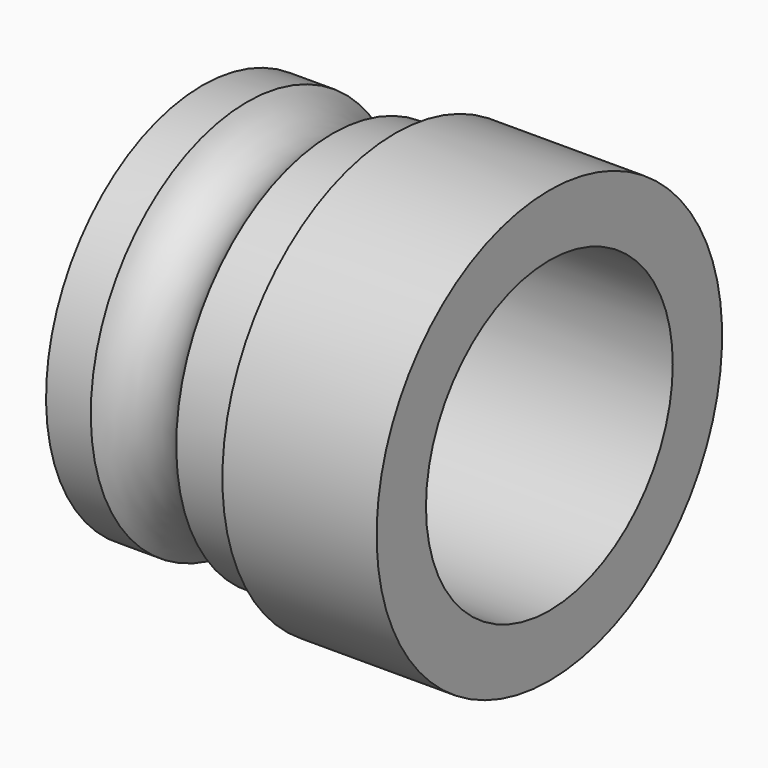
from build123d import *


with BuildPart() as f1:
    # F0 (on Front) → F1 (revolve)
    with BuildSketch(Plane.XZ):
        with BuildLine():
            Line((10.8331, 22.225), (10.8331, 20.1168))
            Line((10.8331, 20.1168), (4.399409, 20.1168))
            ThreePointArc((4.399409, 20.1168), (0, 17.5768), (-4.399409, 20.1168))
            Line((-4.399409, 20.1168), (-9.0043, 20.1168))
            Line((-9.0043, 20.1168), (-9.0043, 15.875))
            Line((-9.0043, 15.875), (26.7081, 15.875))
            Line((26.7081, 15.875), (26.7081, 22.225))
            Line((26.7081, 22.225), (10.8331, 22.225))
        make_face()
    revolve(axis=Axis((5.41655, 0, 0), (1, 0, 0)))


solid = f1.part
